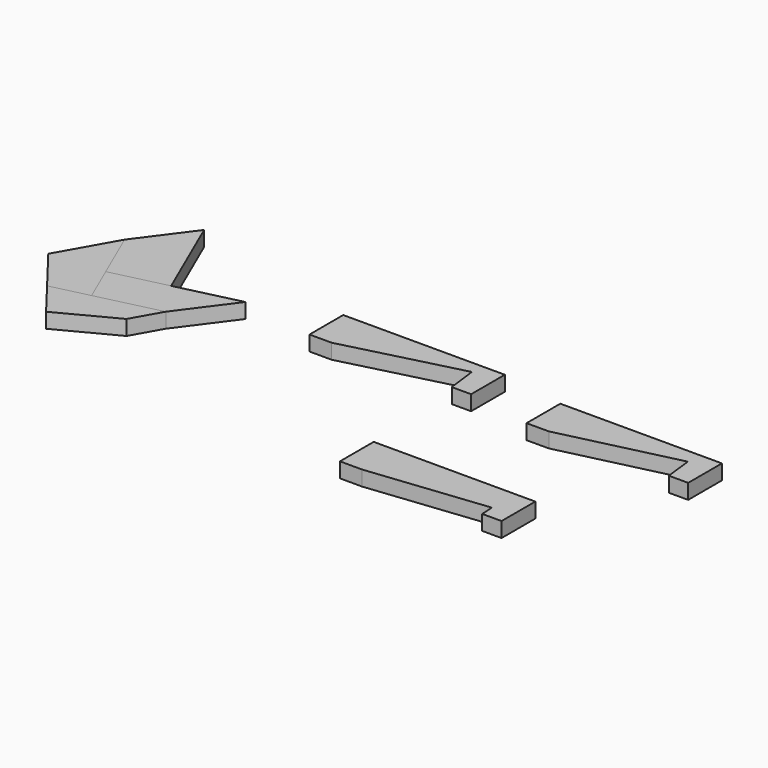
from build123d import *

# Parameters (mm, degrees)
F3_DEPTH = 25
F4_DEPTH = 25
F5_DEPTH = 25
F6_DEPTH = 25
F7_DEPTH = 25
F8_DEPTH = 25
F9_DEPTH = 25


with BuildPart() as f3:
    # F2 (on Top) → F3 (new body)
    with BuildSketch(Plane.XY):
        Polygon((418.599508, -853.375829), (455.640994, -853.375829), (649.390994, -803.767992), (655.640994, -853.375829), (687.844723, -853.375829), (687.844723, -783.074455), (418.599508, -783.074455), align=None)
    extrude(amount=F3_DEPTH)


with BuildPart() as f4:
    # F2 (on Top) → F4 (new body)
    with BuildSketch(Plane.XY):
        Polygon((795.09985, -871.966783), (832.141335, -871.966783), (1026.696891, -825.618797), (1032.141335, -871.966783), (1064.345064, -871.966783), (1064.345064, -801.66541), (795.09985, -801.66541), align=None)
    extrude(amount=F4_DEPTH)


with BuildPart() as f5:
    # F2 (on Top) → F5 (new body)
    with BuildSketch(Plane.XY):
        Polygon((672.73962, -1107.620541), (709.781106, -1107.620541), (908.607495, -1085.985683), (909.781106, -1107.620541), (941.984834, -1107.620541), (941.984834, -1037.319168), (672.73962, -1037.319168), align=None)
    extrude(amount=F5_DEPTH)


with BuildPart() as f6:
    # F1 (on Top) → F6 (new body)
    with BuildSketch(Plane.XY):
        Polygon((100.964538, -880.615691), (192.483972, -858.754409), (127.519154, -708.877385), (63.774859, -794.817276), align=None)
    extrude(amount=F6_DEPTH)


with BuildPart() as f7:
    # F1 (on Top) → F7 (new body)
    with BuildSketch(Plane.XY):
        Polygon((232.441935, -919.922901), (296.18623, -833.98301), (192.483972, -858.754409), (100.964538, -880.615691), (128.739677, -944.6943), align=None)
    extrude(amount=F7_DEPTH)


with BuildPart() as f8:
    # F1 (on Top) → F8 (new body)
    with BuildSketch(Plane.XY):
        Polygon((128.739677, -944.6943), (100.964538, -880.615691), (63.774859, -794.817276), (11.16119, -887.988097), (66.412814, -959.582342), align=None)
    extrude(amount=F8_DEPTH)


with BuildPart() as f9:
    # F1 (on Top) → F9 (new body)
    with BuildSketch(Plane.XY):
        Polygon((205.397526, -967.814445), (232.441935, -919.922901), (128.739677, -944.6943), (66.412814, -959.582342), (110.961206, -1017.307495), align=None)
    extrude(amount=F9_DEPTH)


solid = Compound([f3.part, f4.part, f5.part, f6.part, f7.part, f8.part, f9.part])
